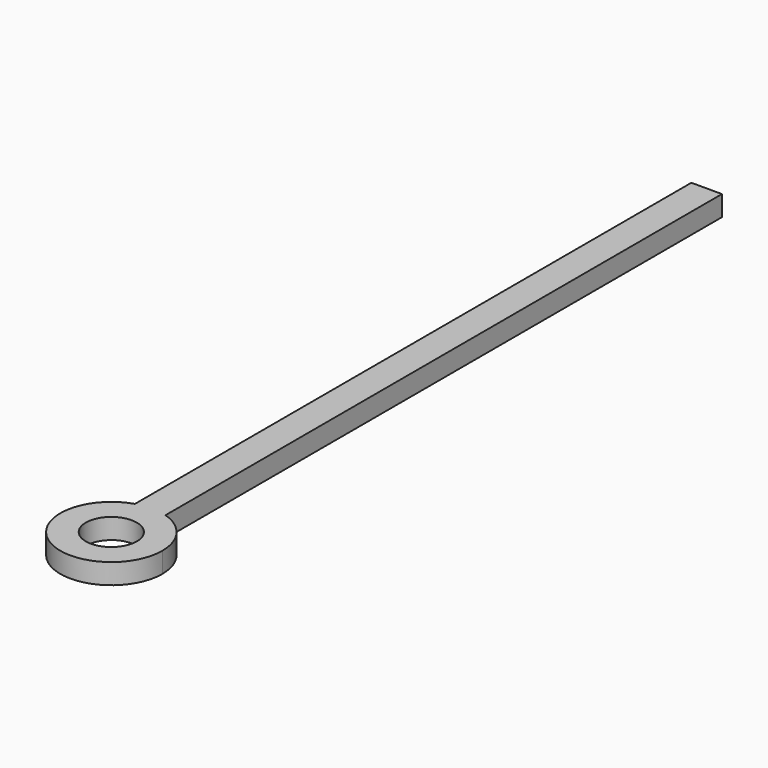
from build123d import *

# Parameters (mm, degrees)
F1_DEPTH = 2
F2_R     = 2.5
F3_DEPTH = 2.001


with BuildPart() as f1:
    # F0 (on Top) → F1 (new body)
    with BuildSketch(Plane.XY):
        with BuildLine():
            ThreePointArc((-1.5, 4.769696), (-2.95804, -4.031129), (5, 0))
            ThreePointArc((5, 0), (4.031129, 2.95804), (1.5, 4.769696))
            Line((1.5, 4.769696), (1.5, 0))
            Line((1.5, 0), (-1.5, 0))
            Line((-1.5, 0), (-1.5, 4.769696))
        make_face()
        with BuildLine():
            Line((1.5, 0), (1.5, 4.769696))
            ThreePointArc((1.5, 4.769696), (0, 5), (-1.5, 4.769696))
            Line((-1.5, 4.769696), (-1.5, 0))
            Line((-1.5, 0), (1.5, 0))
        make_face()
        with BuildLine():
            ThreePointArc((-1.5, 4.769696), (0, 5), (1.5, 4.769696))
            Line((1.5, 4.769696), (1.5, 73))
            Line((1.5, 73), (-1.5, 73))
            Line((-1.5, 73), (-1.5, 4.769696))
        make_face()
    extrude(amount=F1_DEPTH)

    # F2 (on face) → F3 (cut, through all)
    with BuildSketch(Plane.XY.offset(2)):
        Circle(F2_R)
    extrude(amount=-F3_DEPTH, mode=Mode.SUBTRACT)


solid = f1.part
